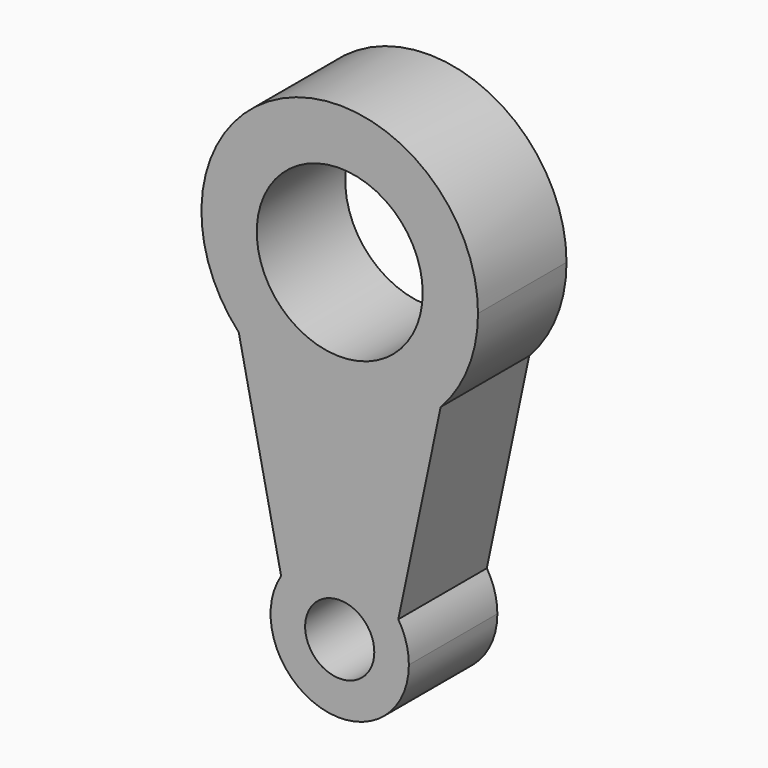
from build123d import *

# Parameters (mm, degrees)
F1_DEPTH = 12.7
F2_DEPTH = 12.7
F3_R     = 19.05
F4_DEPTH = 25.401
F5_R     = 7.9375
F6_DEPTH = 25.401


with BuildPart() as f1:
    # F0 (on Front) → F1 (new body, symmetric)
    with BuildSketch(Plane.XZ):
        with BuildLine():
            ThreePointArc((23.178504, -21.698374), (29.529477, -11.665012), (31.75, 0))
            ThreePointArc((31.75, 0), (-11.665012, 29.529477), (-23.178504, -21.698374))
            ThreePointArc((-23.178504, -21.698374), (0, -31.75), (23.178504, -21.698374))
        make_face()
    extrude(amount=F1_DEPTH, both=True)

    # F0 (on Front) → F2 (join, symmetric)
    with BuildSketch(Plane.XZ):
        with BuildLine():
            ThreePointArc((23.178504, -21.698374), (0, -31.75), (-23.178504, -21.698374))
            Line((-23.178504, -21.698374), (-13.455255, -67.775527))
            ThreePointArc((-13.455255, -67.775527), (0, -60.325), (13.455255, -67.775527))
            Line((13.455255, -67.775527), (23.178504, -21.698374))
        make_face()
        with BuildLine():
            ThreePointArc((13.455255, -67.775527), (0, -60.325), (-13.455255, -67.775527))
            ThreePointArc((-13.455255, -67.775527), (-4.382548, -91.458077), (15.875, -76.2))
            ThreePointArc((15.875, -76.2), (15.258077, -71.817452), (13.455255, -67.775527))
        make_face()
    extrude(amount=F2_DEPTH, both=True)

    # F3 (on face) → F4 (cut, through all)
    with BuildSketch(Plane.XZ.offset(12.7)):
        Circle(F3_R)
    extrude(amount=-F4_DEPTH, mode=Mode.SUBTRACT)

    # F5 (on face) → F6 (cut, through all)
    with BuildSketch(Plane.XZ.offset(12.7)):
        with Locations((0, -76.2)):
            Circle(F5_R)
    extrude(amount=-F6_DEPTH, mode=Mode.SUBTRACT)


solid = f1.part
